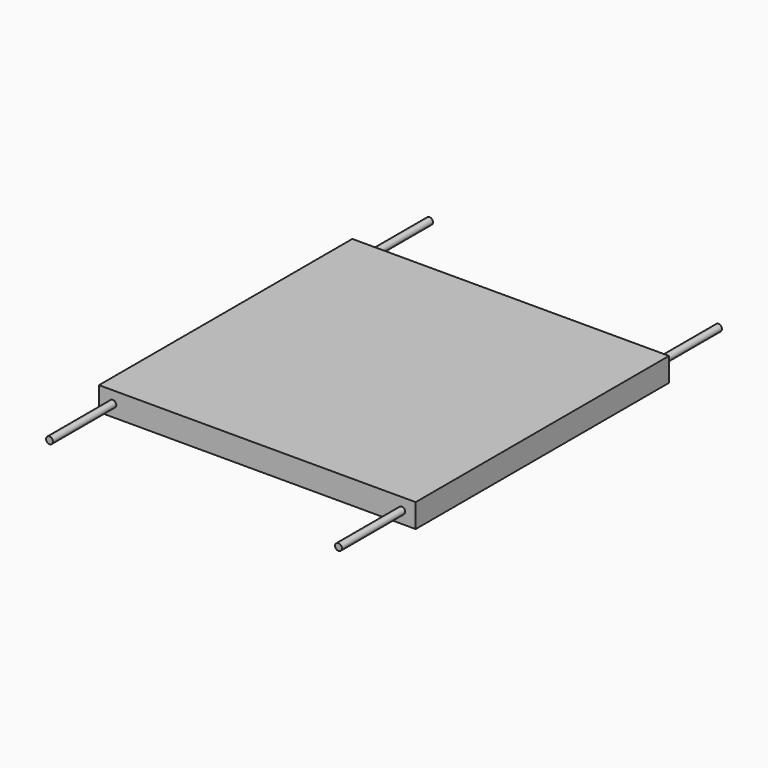
from build123d import *

# Parameters (mm, degrees)
F0_W     = 200
F0_H     = 200
F1_DEPTH = 15
F2_R     = 2.165
F3_DEPTH = 50
F4_R     = 2.165
F5_DEPTH = 50


with BuildPart() as f1:
    # F0 (on Top) → F1 (new body)
    with BuildSketch(Plane.XY):
        Rectangle(F0_W, F0_H)
    extrude(amount=F1_DEPTH)

    # F2 (on face) → F3 (join)
    with BuildSketch(Plane(origin=(0, 100, 0), x_dir=(-1, 0, 0), z_dir=(0, 1, 0))):
        with Locations((-91.25, 7.5)):
            Circle(F2_R)
        with Locations((91.25, 7.5)):
            Circle(F2_R)
    extrude(amount=F3_DEPTH)

    # F4 (on face) → F5 (join)
    with BuildSketch(Plane.XZ.offset(100)):
        with Locations((-91.25, 7.5)):
            Circle(F4_R)
        with Locations((91.25, 7.5)):
            Circle(F4_R)
    extrude(amount=F5_DEPTH)


solid = f1.part
